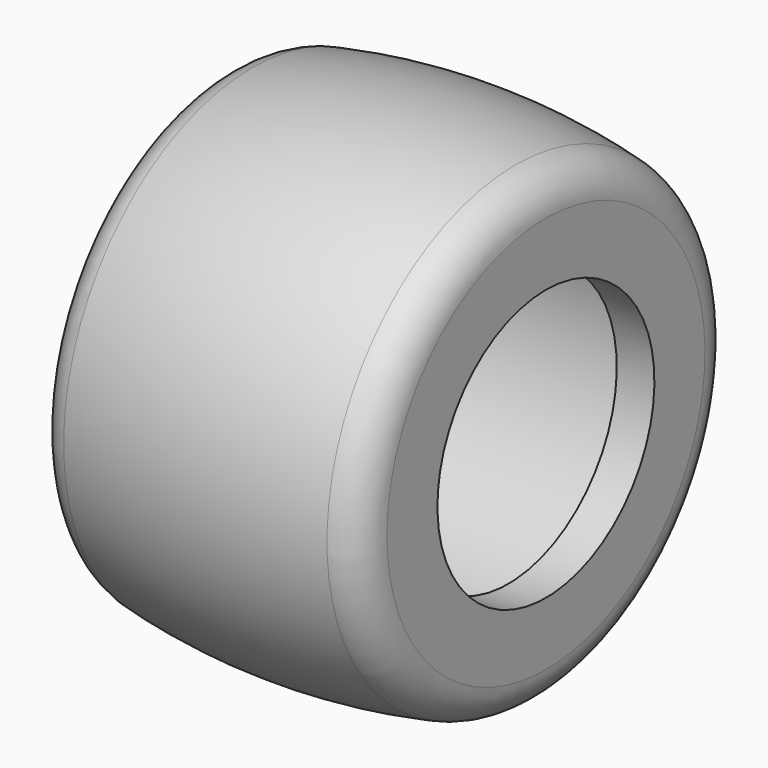
from build123d import *


with BuildPart() as f1:
    # F0 (on Front) → F1 (revolve)
    with BuildSketch(Plane.XZ):
        with BuildLine():
            Line((-21.5, 26.383152), (-21.5, 18))
            Line((-21.5, 18), (-16.5, 18))
            Line((-16.5, 18), (-16.5, 25))
            Line((-16.5, 25), (16.5, 25))
            Line((16.5, 25), (16.5, 18))
            Line((16.5, 18), (21.5, 18))
            Line((21.5, 18), (21.5, 26.383152))
            ThreePointArc((21.5, 26.383152), (20.363479, 29.557034), (17.470588, 31.288043))
            ThreePointArc((17.470588, 31.288043), (0, 33), (-17.470588, 31.288043))
            ThreePointArc((-17.470588, 31.288043), (-20.363479, 29.557034), (-21.5, 26.383152))
        make_face()
    revolve(axis=Axis((-32.789078, 0, 0), (1, 0, 0)))


solid = f1.part
